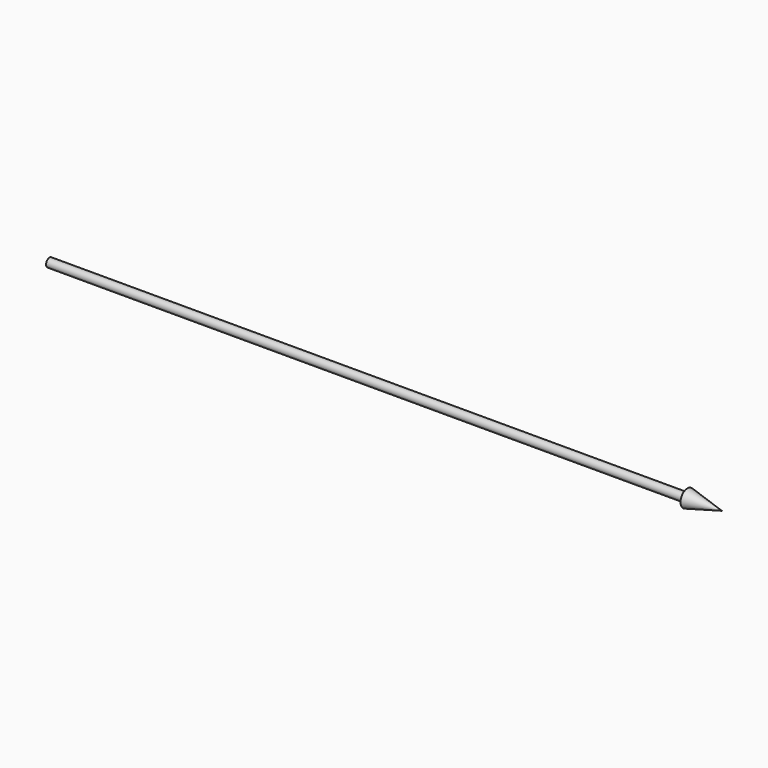
from build123d import *

# Parameters (mm, degrees)
CYLINDER003_R     = 25
CYLINDER003_DEPTH = 3700


with BuildPart() as cone004:
    # Cone004 → Cone004 (revolve)
    with BuildSketch(Plane(origin=(3700, 0, 0), x_dir=(0, 0, -1), z_dir=(0, -1, 0))):
        Polygon((0, 0), (50, 0), (0, 200), align=None)
    revolve(axis=Axis((3700, 0, 0), (1, 0, 0)))


with BuildPart() as fusion015:
    # Cylinder003 → Cylinder003 (new body)
    with BuildSketch(Plane(origin=(0, 0, 0), x_dir=(0, 0, -1), z_dir=(1, 0, 0))):
        Circle(CYLINDER003_R)
    extrude(amount=CYLINDER003_DEPTH)

    # Fusion015: union Cone004
    add(cone004.part)


with BuildPart() as fusion015_1:
    # Fusion015 placement: moved
    add(fusion015.part.moved(Location((3900, -750, 0))))


solid = fusion015_1.part
